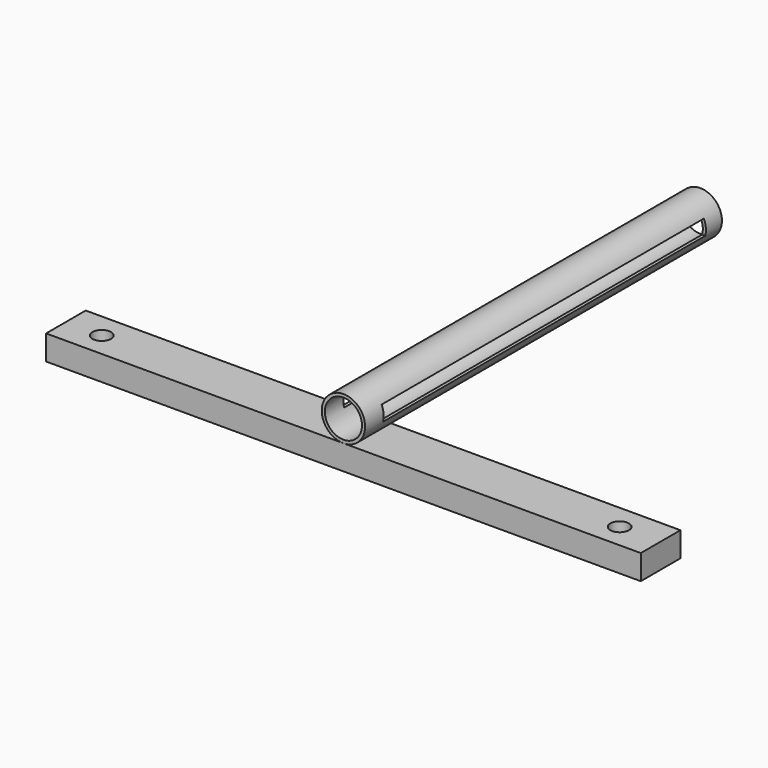
from build123d import *

# Parameters (mm, degrees)
F0_R      = 44.45
F1_DEPTH  = 914.4
F3_D      = 76.2
F4_W      = 1219.2
F4_H      = 50.8
F5_DEPTH  = 101.6
F7_D      = 38.1
F8_D      = 38.1
F9_W      = 825.881869
F9_H      = 30.252091
F10_DEPTH = 114.3
F11_DEPTH = 109.22


with BuildPart() as f1:
    # F0 (on Front) → F1 (new body)
    with BuildSketch(Plane.XZ):
        with Locations((0, 82.406055)):
            Circle(F0_R)
    extrude(amount=F1_DEPTH)

    # F3 (through all)
    with Locations(Plane.XZ.offset(914.4)):
        with Locations((0, 82.406055)):
            Hole(F3_D / 2)

    # F4 (on face) → F5 (join)
    with BuildSketch(Plane.XZ.offset(914.4)):
        with Locations((0, 12.556055)):
            Rectangle(F4_W, F4_H)
    extrude(amount=-F5_DEPTH)

    # F7 (through all)
    with Locations(Plane.XY.offset(37.956055)):
        with Locations((-535.521269, -864.343703)):
            Hole(F7_D / 2)

    # F8 (through all)
    with Locations(Plane.XY.offset(37.956055)):
        with Locations((526.25519, -864.343703)):
            Hole(F8_D / 2)

    # F9 (on Right) → F10 (cut)
    with BuildSketch(Plane.YZ):
        with Locations((-453.915223, 86.321439)):
            Rectangle(F9_W, F9_H)
    extrude(amount=-F10_DEPTH, mode=Mode.SUBTRACT)

    # F9 (on Right) → F11 (cut)
    with BuildSketch(Plane.YZ):
        with Locations((-453.915223, 86.321439)):
            Rectangle(F9_W, F9_H)
    extrude(amount=F11_DEPTH, mode=Mode.SUBTRACT)


solid = f1.part
